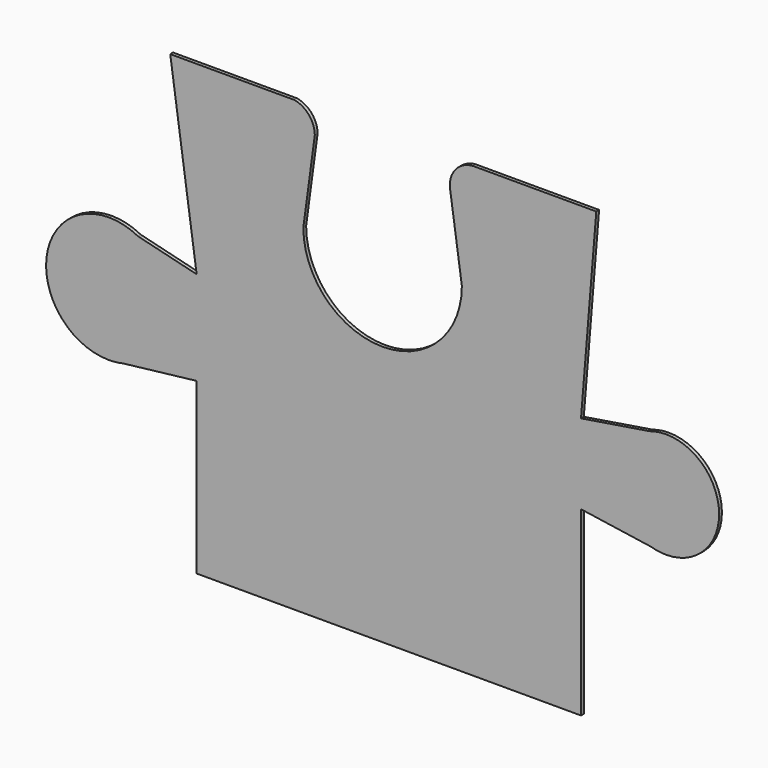
from build123d import *

# Parameters (mm, degrees)
F0_W      = 304.8
F0_H      = 203.2
F1_DEPTH  = 1.5875
F3_DEPTH  = 50.8
F5_DEPTH  = 50.8
F7_DEPTH  = 50.8
F9_DEPTH  = 50.8
F10_DEPTH = 50.8
F12_DEPTH = 50.8
F13_DEPTH = 50.8


with BuildPart() as f1:
    # F0 (on Front) → F1 (new body)
    with BuildSketch(Plane.XZ):
        with Locations((50.476827, 0.969891)):
            Rectangle(F0_W, F0_H)
    extrude(amount=F1_DEPTH)

    # F2 (on face) → F3 (cut)
    with BuildSketch(Plane.XZ.offset(1.5875)):
        with BuildLine():
            Line((15.86265, 62.592995), (14.575709, 53.066764))
            ThreePointArc((14.575709, 53.066764), (50.476827, 17.165645), (86.377946, 53.066764))
            Line((86.377946, 53.066764), (84.91056, 63.225917))
            ThreePointArc((84.91056, 63.225917), (50.147756, 88.966374), (15.86265, 62.592995))
        make_face()
        with BuildLine():
            Line((21.263311, 102.569891), (15.86265, 62.592995))
            ThreePointArc((15.86265, 62.592995), (50.147756, 88.966374), (84.91056, 63.225917))
            Line((84.91056, 63.225917), (79.227723, 102.569891))
            Line((79.227723, 102.569891), (21.263311, 102.569891))
        make_face()
    extrude(amount=-F3_DEPTH, mode=Mode.SUBTRACT)

    # F4 (on face) → F5 (cut)
    with BuildSketch(Plane.XZ.offset(1.5875)):
        with BuildLine():
            ThreePointArc((10.542255, 102.569891), (17.11496, 98.736978), (19.782878, 91.611398))
            Line((19.782878, 91.611398), (21.263311, 102.569891))
            Line((21.263311, 102.569891), (10.542255, 102.569891))
        make_face()
    extrude(amount=-F5_DEPTH, mode=Mode.SUBTRACT)

    # F6 (on face) → F7 (cut)
    with BuildSketch(Plane.XZ.offset(1.5875)):
        with BuildLine():
            ThreePointArc((80.943088, 90.693909), (83.775623, 98.891014), (91.629388, 102.569891))
            Line((91.629388, 102.569891), (79.227723, 102.569891))
            Line((79.227723, 102.569891), (80.943088, 90.693909))
        make_face()
    extrude(amount=-F7_DEPTH, mode=Mode.SUBTRACT)

    # F8 (on face) → F9 (cut)
    with BuildSketch(Plane.XZ.offset(1.5875)):
        with BuildLine():
            Line((-33.738296, 18.680416), (-45.690459, 102.569891))
            Line((-45.690459, 102.569891), (-101.923173, 102.569891))
            Line((-101.923173, 102.569891), (-101.923173, 0))
            ThreePointArc((-101.923173, 0), (-93.593919, 20.108597), (-73.485322, 28.43785))
            ThreePointArc((-73.485322, 28.43785), (-66.705464, 27.617836), (-60.316604, 25.205083))
            Line((-60.316604, 25.205083), (-33.738296, 18.680416))
        make_face()
    extrude(amount=-F9_DEPTH, mode=Mode.SUBTRACT)

    # F8 (on face) → F10 (cut)
    with BuildSketch(Plane.XZ.offset(1.5875)):
        with BuildLine():
            Line((-33.738296, -100.630109), (-33.738296, -23.826821))
            Line((-33.738296, -23.826821), (-66.974824, -27.682571))
            ThreePointArc((-66.974824, -27.682571), (-70.208242, -28.2484), (-73.485322, -28.43785))
            ThreePointArc((-73.485322, -28.43785), (-93.593919, -20.108597), (-101.923173, 0))
            Line((-101.923173, 0), (-101.923173, -100.630109))
            Line((-101.923173, -100.630109), (-33.738296, -100.630109))
        make_face()
    extrude(amount=-F10_DEPTH, mode=Mode.SUBTRACT)

    # F11 (on face) → F12 (cut)
    with BuildSketch(Plane.XZ.offset(1.5875)):
        with BuildLine():
            Line((202.876827, 102.569891), (147.253108, 102.569891))
            Line((147.253108, 102.569891), (140.32495, 17.84187))
            Line((140.32495, 17.84187), (171.340779, 22.817166))
            ThreePointArc((171.340779, 22.817166), (175.049557, 23.719205), (178.854391, 24.022436))
            ThreePointArc((178.854391, 24.022436), (195.840819, 16.986428), (202.876827, 0))
            Line((202.876827, 0), (202.876827, 102.569891))
        make_face()
    extrude(amount=-F12_DEPTH, mode=Mode.SUBTRACT)

    # F11 (on face) → F13 (cut)
    with BuildSketch(Plane.XZ.offset(1.5875)):
        with BuildLine():
            Line((171.950437, -23.008974), (140.32495, -18.366525))
            Line((140.32495, -18.366525), (140.32495, -100.630109))
            Line((140.32495, -100.630109), (202.876827, -100.630109))
            Line((202.876827, -100.630109), (202.876827, 0))
            ThreePointArc((202.876827, 0), (195.840819, -16.986428), (178.854391, -24.022436))
            ThreePointArc((178.854391, -24.022436), (175.365419, -23.76772), (171.950437, -23.008974))
        make_face()
    extrude(amount=-F13_DEPTH, mode=Mode.SUBTRACT)


solid = f1.part
